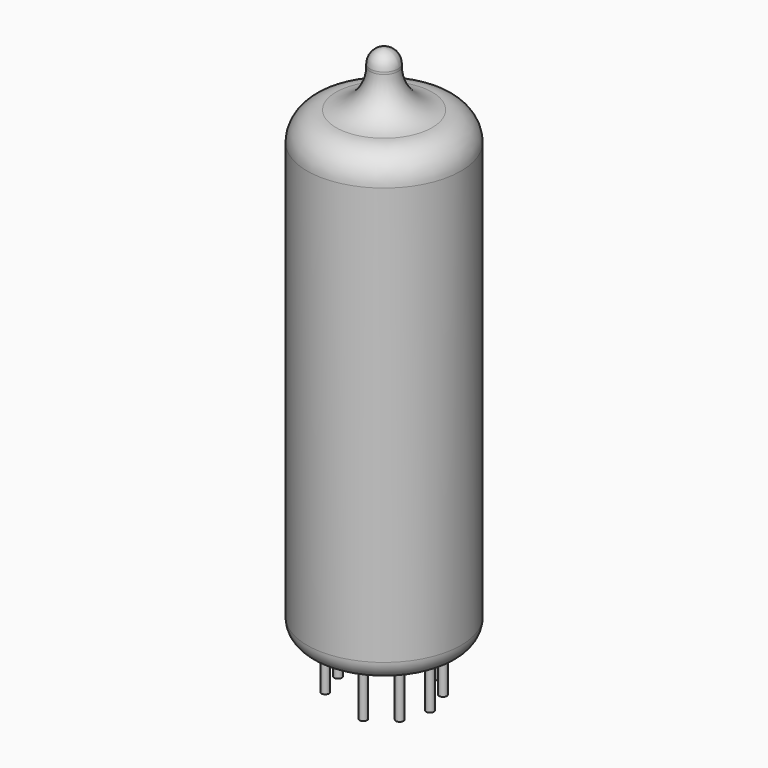
from build123d import *

# Parameters (mm, degrees)
F2_R     = 0.508
F3_DEPTH = 6.35


with BuildPart() as f1:
    # F0 (on Front) → F1 (revolve)
    with BuildSketch(Plane.XZ):
        with BuildLine():
            Line((0, 68.6562), (0, 0))
            Line((0, 0), (7.62, 0))
            ThreePointArc((7.62, 0), (9.416051, 0.743949), (10.16, 2.54))
            Line((10.16, 2.54), (10.16, 57.658))
            ThreePointArc((10.16, 57.658), (9.044077, 60.352077), (6.35, 61.468))
            ThreePointArc((6.35, 61.468), (3.132726, 63.131731), (1.8415, 66.515751))
            Line((1.8415, 66.515751), (1.8415, 66.8147))
            ThreePointArc((1.8415, 66.8147), (1.302137, 68.116837), (0, 68.6562))
        make_face()
    revolve(axis=Axis((0, 0, 28.707085), (0, 0, -1)))

    # F2 (on face) → F3 (join)
    with BuildSketch(Plane(origin=(0, 0, 0), x_dir=(1, 0, 0), z_dir=(0, 0, -1))):
        with Locations((-6.0706, 0)):
            Circle(F2_R)
        with Locations((6.0706, 0)):
            Circle(F2_R)
        with Locations((-4.911219, -3.568209)):
            Circle(F2_R)
        with Locations((-1.875919, -5.773484)):
            Circle(F2_R)
        with Locations((1.875919, -5.773484)):
            Circle(F2_R)
        with Locations((4.911219, -3.568209)):
            Circle(F2_R)
        with Locations((4.911219, 3.568209)):
            Circle(F2_R)
        with Locations((1.875919, 5.773484)):
            Circle(F2_R)
        with Locations((-4.911219, 3.568209)):
            Circle(F2_R)
    extrude(amount=F3_DEPTH)


solid = f1.part
